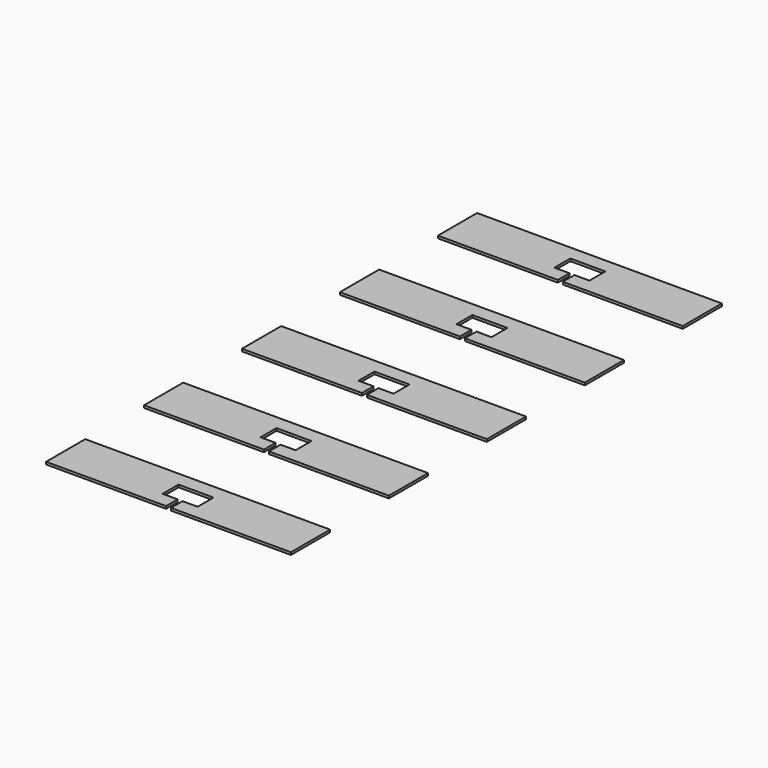
from build123d import *

# Parameters (mm, degrees)
F1_DEPTH = 1


with BuildPart() as f1:
    # F0 (on Top) → F1 (new body)
    with BuildSketch(Plane.XY):
        Polygon((50, 10), (0, 10), (-50, 10), (-50, 0), (-50, -10), (-1, -10), (-1, -4.0625), (-7.15, -4.0625), (-7.15, 0), (-7.15, 4.0625), (0, 4.0625), (7.15, 4.0625), (7.15, 0), (7.15, -4.0625), (1, -4.0625), (1, -10), (50, -10), (50, 0), align=None)
        Polygon((50, 50), (50, 60), (0, 60), (-50, 60), (-50, 50), (-50, 40), (-1, 40), (-1, 45.9375), (-7.15, 45.9375), (-7.15, 50), (-7.15, 54.0625), (0, 54.0625), (7.15, 54.0625), (7.15, 50), (7.15, 45.9375), (1, 45.9375), (1, 40), (50, 40), align=None)
        Polygon((50, 100), (50, 110), (0, 110), (-50, 110), (-50, 100), (-50, 90), (-1, 90), (-1, 95.9375), (-7.15, 95.9375), (-7.15, 100), (-7.15, 104.0625), (0, 104.0625), (7.15, 104.0625), (7.15, 100), (7.15, 95.9375), (1, 95.9375), (1, 90), (50, 90), align=None)
        Polygon((50, 150), (50, 160), (0, 160), (-50, 160), (-50, 150), (-50, 140), (-1, 140), (-1, 145.9375), (-7.15, 145.9375), (-7.15, 150), (-7.15, 154.0625), (0, 154.0625), (7.15, 154.0625), (7.15, 150), (7.15, 145.9375), (1, 145.9375), (1, 140), (50, 140), align=None)
        Polygon((50, 200), (50, 210), (0, 210), (-50, 210), (-50, 200), (-50, 190), (-1, 190), (-1, 195.9375), (-7.15, 195.9375), (-7.15, 200), (-7.15, 204.0625), (0, 204.0625), (7.15, 204.0625), (7.15, 200), (7.15, 195.9375), (1, 195.9375), (1, 190), (50, 190), align=None)
    extrude(amount=F1_DEPTH)


solid = f1.part
